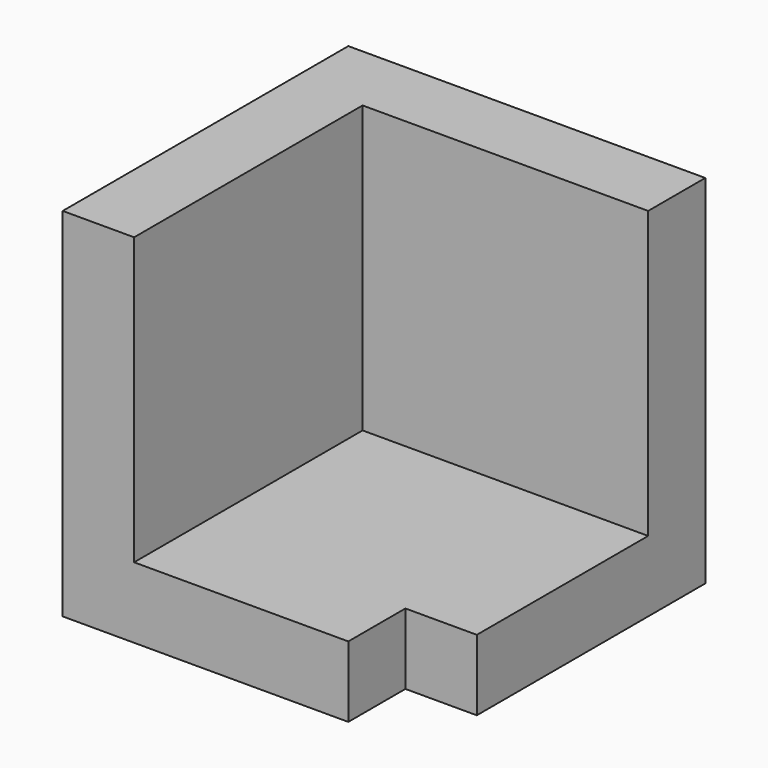
from build123d import *

# Parameters (mm, degrees)
F0_W     = 63.5
F0_H     = 63.5
F1_DEPTH = 63.5
F2_W     = 50.8
F2_H     = 50.8
F3_DEPTH = 50.893329
F4_W     = 12.7
F4_H     = 12.7
F5_DEPTH = 25.4


with BuildPart() as f1:
    # F0 (on Front) → F1 (new body)
    with BuildSketch(Plane.XZ):
        with Locations((31.75, 31.75)):
            Rectangle(F0_W, F0_H)
    extrude(amount=F1_DEPTH)

    # F2 (on face) → F3 (cut)
    with BuildSketch(Plane.XY.offset(63.5)):
        with Locations((38.1, -38.1)):
            Rectangle(F2_W, F2_H)
    extrude(amount=-F3_DEPTH, mode=Mode.SUBTRACT)

    # F4 (on face) → F5 (cut)
    with BuildSketch(Plane.XY.offset(12.606671)):
        with Locations((57.15, -57.15)):
            Rectangle(F4_W, F4_H)
    extrude(amount=-F5_DEPTH, mode=Mode.SUBTRACT)


solid = f1.part
